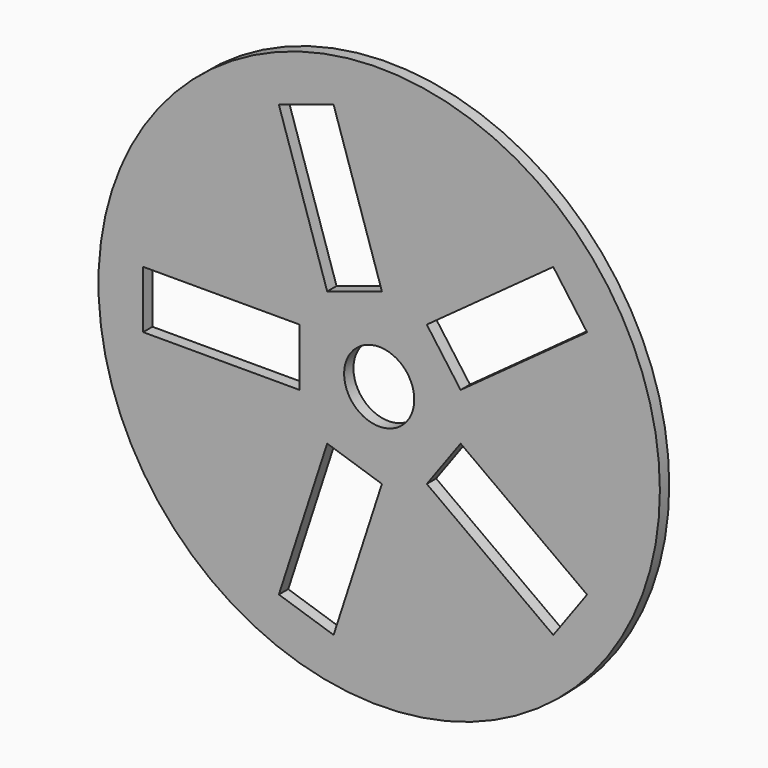
from build123d import *

# Parameters (mm, degrees)
F1_DEPTH = 25.4


with BuildPart() as f1:
    # F0 (on Front) → F1 (new body)
    with BuildSketch(Plane.XZ):
        with BuildLine():
            ThreePointArc((-609.6, 0), (0, -609.6), (609.6, 0))
            ThreePointArc((609.6, 0), (0, 609.6), (-609.6, 0))
        make_face()
        Polygon((-98.998199, -506.860354), (-217.833815, -468.248322), (-112.925656, -145.374205), (5.909961, -183.986237), align=None, mode=Mode.SUBTRACT)
        Polygon((451.460717, -250.781346), (378.016267, -351.868959), (103.363138, -152.32178), (176.807588, -51.234167), align=None, mode=Mode.SUBTRACT)
        Polygon((-512.644968, -62.475581), (-512.644968, 0), (-512.644968, 62.475581), (-173.155032, 62.475581), (-173.155032, 0), (-173.155032, -62.475581), align=None, mode=Mode.SUBTRACT)
        Polygon((-217.833815, 468.248322), (-98.998199, 506.860354), (5.909961, 183.986237), (-112.925656, 145.374205), align=None, mode=Mode.SUBTRACT)
        with BuildLine():
            ThreePointArc((76.2, 0), (0, -76.2), (-76.2, 0))
            ThreePointArc((-76.2, 0), (0, 76.2), (76.2, 0))
        make_face(mode=Mode.SUBTRACT)
        Polygon((378.016267, 351.868959), (451.460717, 250.781346), (176.807588, 51.234167), (103.363138, 152.32178), align=None, mode=Mode.SUBTRACT)
        with BuildLine():
            ThreePointArc((-609.6, 0), (0, -609.6), (609.6, 0))
            ThreePointArc((609.6, 0), (0, 609.6), (-609.6, 0))
        make_face()
        Polygon((-98.998199, -506.860354), (-217.833815, -468.248322), (-112.925656, -145.374205), (5.909961, -183.986237), align=None, mode=Mode.SUBTRACT)
        Polygon((451.460717, -250.781346), (378.016267, -351.868959), (103.363138, -152.32178), (176.807588, -51.234167), align=None, mode=Mode.SUBTRACT)
        Polygon((-512.644968, -62.475581), (-512.644968, 0), (-512.644968, 62.475581), (-173.155032, 62.475581), (-173.155032, 0), (-173.155032, -62.475581), align=None, mode=Mode.SUBTRACT)
        Polygon((-217.833815, 468.248322), (-98.998199, 506.860354), (5.909961, 183.986237), (-112.925656, 145.374205), align=None, mode=Mode.SUBTRACT)
        with BuildLine():
            ThreePointArc((76.2, 0), (0, -76.2), (-76.2, 0))
            ThreePointArc((-76.2, 0), (0, 76.2), (76.2, 0))
        make_face(mode=Mode.SUBTRACT)
        Polygon((378.016267, 351.868959), (451.460717, 250.781346), (176.807588, 51.234167), (103.363138, 152.32178), align=None, mode=Mode.SUBTRACT)
    extrude(amount=F1_DEPTH)


solid = f1.part
